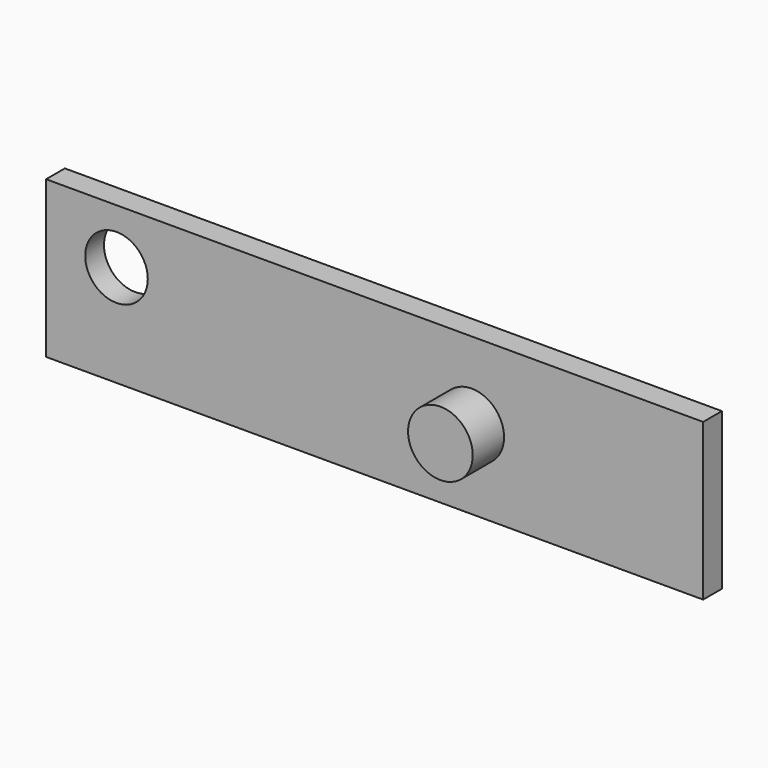
from build123d import *

# Parameters (mm, degrees)
F0_W     = 420
F0_H     = 100
F1_DEPTH = 15
F2_R     = 20
F3_DEPTH = 15.001
F4_R     = 20.670136
F5_DEPTH = 25


with BuildPart() as f1:
    # F0 (on Front) → F1 (new body)
    with BuildSketch(Plane.XZ):
        Rectangle(F0_W, F0_H)
    extrude(amount=F1_DEPTH)

    # F2 (on face) → F3 (cut, through all)
    with BuildSketch(Plane.XZ.offset(15)):
        with Locations((-165, 15)):
            Circle(F2_R)
    extrude(amount=-F3_DEPTH, mode=Mode.SUBTRACT)

    # F4 (on face) → F5 (join)
    with BuildSketch(Plane.XZ.offset(15)):
        with Locations((62.055632, 0)):
            Circle(F4_R)
    extrude(amount=F5_DEPTH)


solid = f1.part
